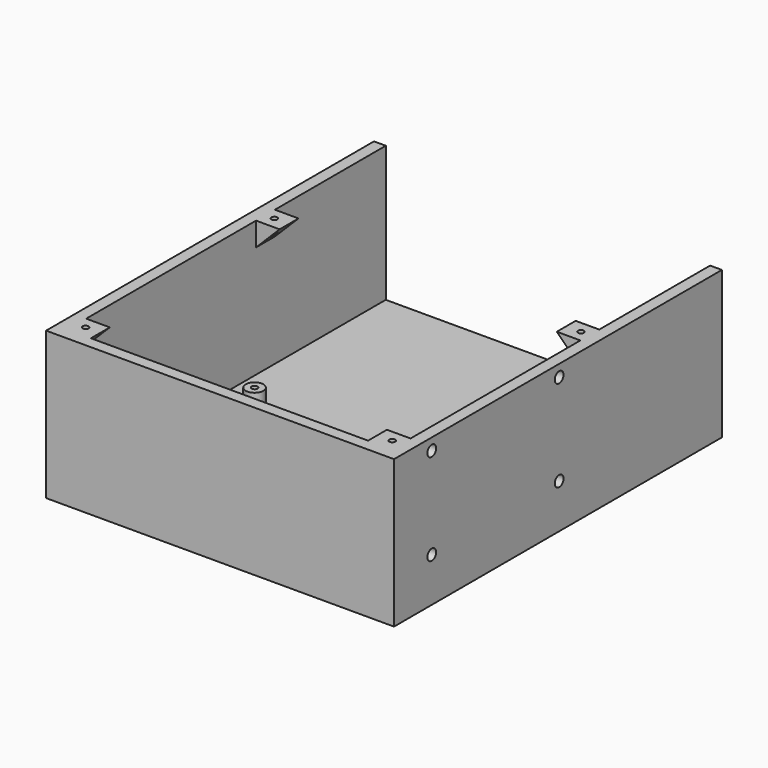
from build123d import *

# Parameters (mm, degrees)
SKETCH002_W         = 117
SKETCH002_H         = 138
PAD001_DEPTH        = 4
SKETCH003_R         = 3
PAD002_DEPTH        = 10
SKETCH004_R         = 1
POCKET_DEPTH        = 0.001
POCKET_DEPTH_BACK   = 10.001
PAD003_DEPTH        = 50
PAD004_DEPTH        = 8
LINEARPATTERN_COUNT = 2
LINEARPATTERN_PITCH = 80
SKETCH007_R         = 1
POCKET001_DEPTH     = 10
SKETCH008_R         = 1.85
POCKET002_DEPTH     = 7


with BuildPart() as part:
    # Sketch002 → Pad001 (new body)
    with BuildSketch(Plane.XY):
        with Locations((0, 30)):
            Rectangle(SKETCH002_W, SKETCH002_H)
    extrude(amount=PAD001_DEPTH)

    # Sketch003 → Pad002 (join)
    with BuildSketch(Plane.XY):
        with Locations((43.5, -29)):
            Circle(SKETCH003_R)
        with Locations((43.5, 29)):
            Circle(SKETCH003_R)
        with Locations((-43.5, 29)):
            Circle(SKETCH003_R)
        with Locations((-43.5, -29)):
            Circle(SKETCH003_R)
    extrude(amount=PAD002_DEPTH)

    # Sketch004 → Pocket (cut, two sides)
    with BuildSketch(Plane.XY) as pocket_sk:
        with Locations((43.5, -29)):
            Circle(SKETCH004_R)
        with Locations((43.5, 29)):
            Circle(SKETCH004_R)
        with Locations((-43.5, 29)):
            Circle(SKETCH004_R)
        with Locations((-43.5, -29)):
            Circle(SKETCH004_R)
    extrude(amount=-POCKET_DEPTH, mode=Mode.SUBTRACT)
    extrude(pocket_sk.sketch, amount=POCKET_DEPTH_BACK, mode=Mode.SUBTRACT)

    # Sketch005 → Pad003 (join)
    with BuildSketch(Plane.XY):
        Polygon((-59, -40), (59, -40), (59, 99), (55, 99), (55, -36), (-55, -36), (-55, 99), (-59, 99), align=None)
    extrude(amount=PAD003_DEPTH)

    # Sketch006 → Pad004 (join)
    with BuildSketch(Plane(origin=(0, -36, 0), x_dir=(-1, 0, 0), z_dir=(0, 1, 0))):
        Polygon((-55, 50), (-55, 42), (-47, 50), align=None)
        Polygon((47, 50), (55, 42), (55, 50), align=None)
    pad004 = extrude(amount=PAD004_DEPTH)

    # LinearPattern: Pad004 ×2
    with Locations(*[(0, i * LINEARPATTERN_PITCH, 0) for i in range(1, LINEARPATTERN_COUNT)]):
        add(pad004)

    # Sketch007 → Pocket001 (cut)
    with BuildSketch(Plane.XY.offset(50)):
        with Locations((52, -32)):
            Circle(SKETCH007_R)
        with Locations((-52, -32)):
            Circle(SKETCH007_R)
        with Locations((-52, 48)):
            Circle(SKETCH007_R)
        with Locations((52, 48)):
            Circle(SKETCH007_R)
    extrude(amount=-POCKET001_DEPTH, mode=Mode.SUBTRACT)

    # Sketch008 → Pocket002 (cut)
    with BuildSketch(Plane.YZ.offset(59)):
        with Locations((-24, 15)):
            Circle(SKETCH008_R)
        with Locations((30, 15)):
            Circle(SKETCH008_R)
        with Locations((30, 46)):
            Circle(SKETCH008_R)
        with Locations((-24, 46)):
            Circle(SKETCH008_R)
    extrude(amount=-POCKET002_DEPTH, mode=Mode.SUBTRACT)


solid = part.part
